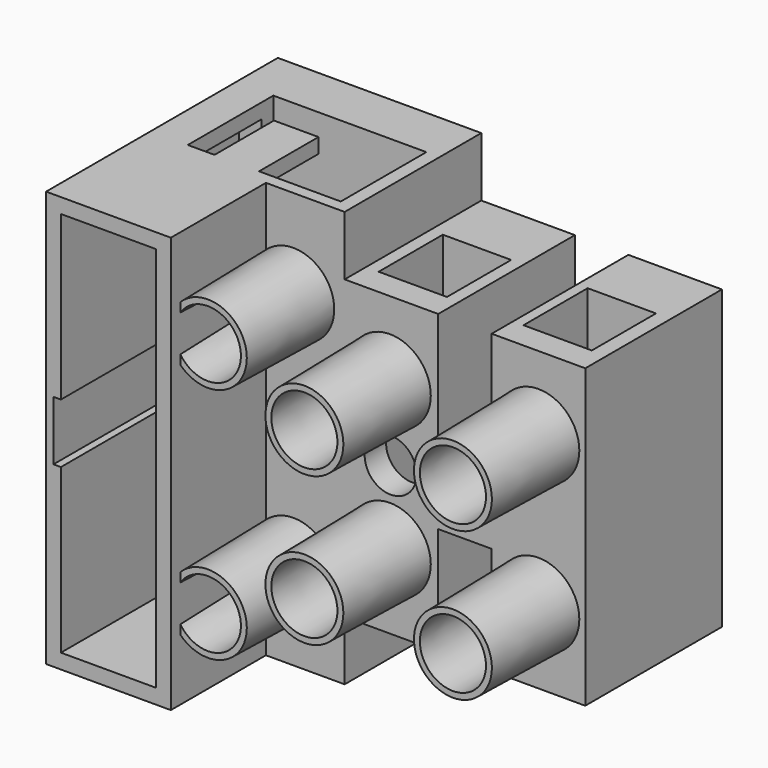
from build123d import *

# Parameters (mm, degrees)
F1_DEPTH  = 11.5
F3_R      = 2.75
F3_R_2    = 2.1
F4_DEPTH  = 7.2
F4_TAPER  = 1
F5_W      = 8.4
F5_H      = 28
F6_DEPTH  = 8
F8_DEPTH  = 15
F10_W     = 4.6
F10_H     = 5.4
F11_DEPTH = 20
F12_W     = 10.3
F12_H     = 7.2
F13_DEPTH = 10
F14_R     = 2
F15_DEPTH = 2
F16_R     = 2.1
F17_DEPTH = 2
F18_R     = 2.1
F19_DEPTH = 2
F20_R     = 2.1
F21_DEPTH = 2
F22_R     = 2.1
F23_DEPTH = 2
F24_R     = 2.1
F25_DEPTH = 2
F26_W     = 10.3
F26_H     = 7.2
F27_DEPTH = 10
F9_R      = 1.75
F28_DEPTH = 12
F29_R     = 1.5
F30_DEPTH = 0.8
F31_W     = 4.9
F31_H     = 8
F32_DEPTH = 1
F33_W     = 3
F33_H     = 1
F34_DEPTH = 5
F35_W     = 3
F35_H     = 1
F36_DEPTH = 5


with BuildPart() as f1:
    # F0 (on Front) → F1 (new body)
    with BuildSketch(Plane.XZ):
        Polygon((0.1941817731, -9.3541857075), (0.1941817731, 10.6458142925), (-6.1058182269, 10.6458142925), (-6.1058182269, 3.3958142925), (-9.7058182269, 3.3958142925), (-9.7058182269, 10.6458142925), (-16.0058182269, 10.6458142925), (-16.0058182269, 14.6458142925), (-29.7058182269, 14.6458142925), (-29.7058182269, 4.2458142925), (-31.1058182269, 4.2458142925), (-31.1058182269, -2.9541857075), (-29.7058182269, -2.9541857075), (-29.7058182269, -13.3541857075), (-16.0058182269, -13.3541857075), (-16.0058182269, -9.3541857075), (-9.7058182269, -9.3541857075), (-9.7058182269, -2.1041857075), (-6.1058182269, -2.1041857075), (-6.1058182269, -9.3541857075), align=None)
    extrude(amount=F1_DEPTH)

    # F3 (on face) → F4 (join)
    with BuildSketch(Plane.XZ.offset(11.5)):
        with Locations((-2.9558182269, 5.6458142925)):
            Circle(F3_R)
        with Locations((-2.9558182269, 5.6458142925)):
            Circle(F3_R_2, mode=Mode.SUBTRACT)
        with Locations((-2.9558182269, -4.3541857075)):
            Circle(F3_R)
        with Locations((-2.9558182269, -4.3541857075)):
            Circle(F3_R_2, mode=Mode.SUBTRACT)
        with Locations((-12.9558182269, 5.6458142925)):
            Circle(F3_R)
        with Locations((-12.9558182269, 5.6458142925)):
            Circle(F3_R_2, mode=Mode.SUBTRACT)
        with Locations((-12.9558182269, -4.3541857075)):
            Circle(F3_R)
        with Locations((-12.9558182269, -4.3541857075)):
            Circle(F3_R_2, mode=Mode.SUBTRACT)
        with Locations((-19.4558182269, -7.3541857075)):
            Circle(F3_R)
        with Locations((-19.4558182269, -7.3541857075)):
            Circle(F3_R_2, mode=Mode.SUBTRACT)
        with Locations((-19.4558182269, 8.6458142925)):
            Circle(F3_R)
        with Locations((-19.4558182269, 8.6458142925)):
            Circle(F3_R_2, mode=Mode.SUBTRACT)
    extrude(amount=F4_DEPTH, taper=F4_TAPER)

    # F5 (on face) → F6 (join)
    with BuildSketch(Plane.XZ.offset(11.5)):
        with Locations((-25.5058182269, 0.6458142925)):
            Rectangle(F5_W, F5_H)
    extrude(amount=F6_DEPTH)

    # F7 (on face) → F8 (cut)
    with BuildSketch(Plane.XZ.offset(19.5)):
        Polygon((-22.3058182269, 13.6458142925), (-28.7058182269, 13.6458142925), (-28.7058182269, 2.6458142925), (-29.2058182269, 2.6458142925), (-29.2058182269, -1.3541857075), (-28.7058182269, -1.3541857075), (-28.7058182269, -12.3541857075), (-22.3058182269, -12.3541857075), align=None)
    extrude(amount=-F8_DEPTH, mode=Mode.SUBTRACT)

    # F10 (on face) → F11 (cut, through all)
    with BuildSketch(Plane(origin=(0, 0, -9.3541857075), x_dir=(1, 0, 0), z_dir=(0, 0, -1))):
        with Locations((-3.1058182269, 7)):
            Rectangle(F10_W, F10_H)
        with Locations((-12.8558182269, 7)):
            Rectangle(F10_W, F10_H)
    extrude(amount=-F11_DEPTH, mode=Mode.SUBTRACT)

    # F12 (on face) → F13 (cut)
    with BuildSketch(Plane(origin=(0, 0, -13.3541857075), x_dir=(1, 0, 0), z_dir=(0, 0, -1))):
        with Locations((-22.0558182269, 7.1)):
            Rectangle(F12_W, F12_H)
    extrude(amount=-F13_DEPTH, mode=Mode.SUBTRACT)

    # F14 (on face) → F15 (cut)
    with BuildSketch(Plane.XZ.offset(11.5)):
        with Locations((-12.9558182269, 5.6458142925)):
            Circle(F14_R)
    extrude(amount=-F15_DEPTH, mode=Mode.SUBTRACT)

    # F16 (on face) → F17 (cut)
    with BuildSketch(Plane.XZ.offset(11.5)):
        with Locations((-12.9558182269, -4.3541857075)):
            Circle(F16_R)
    extrude(amount=-F17_DEPTH, mode=Mode.SUBTRACT)

    # F18 (on face) → F19 (cut)
    with BuildSketch(Plane.XZ.offset(11.5)):
        with Locations((-2.9558182269, 5.6458142925)):
            Circle(F18_R)
    extrude(amount=-F19_DEPTH, mode=Mode.SUBTRACT)

    # F20 (on face) → F21 (cut)
    with BuildSketch(Plane.XZ.offset(11.5)):
        with Locations((-2.9558182269, -4.3541857075)):
            Circle(F20_R)
    extrude(amount=-F21_DEPTH, mode=Mode.SUBTRACT)

    # F22 (on face) → F23 (cut)
    with BuildSketch(Plane.XZ.offset(11.5)):
        with Locations((-19.4558182269, 8.6458142925)):
            Circle(F22_R)
    extrude(amount=-F23_DEPTH, mode=Mode.SUBTRACT)

    # F24 (on face) → F25 (cut)
    with BuildSketch(Plane.XZ.offset(11.5)):
        with Locations((-19.4558182269, -7.3541857075)):
            Circle(F24_R)
    extrude(amount=-F25_DEPTH, mode=Mode.SUBTRACT)

    # F26 (on face) → F27 (cut)
    with BuildSketch(Plane.XY.offset(14.6458142925)):
        with Locations((-22.0558182269, -7.1)):
            Rectangle(F26_W, F26_H)
    extrude(amount=-F27_DEPTH, mode=Mode.SUBTRACT)

    # F9 (on face) → F28 (cut)
    with BuildSketch(Plane.XZ.offset(11.5)):
        with Locations((-7.9058182269, 0.6458142925)):
            Circle(F9_R)
        with Locations((-12.9058182269, 0.6458142925)):
            Circle(F9_R)
        with Locations((-17.9058182269, 0.6458142925)):
            Circle(F9_R)
    extrude(amount=-F28_DEPTH, mode=Mode.SUBTRACT)

    # F29 (on face) → F30 (join)
    with BuildSketch(Plane(origin=(0, 0, 0), x_dir=(-1, 0, 0), z_dir=(0, 1, 0))):
        with Locations((27.9058182269, 0.6458142925)):
            Circle(F29_R)
    extrude(amount=F30_DEPTH)

    # F31 (on face) → F32 (cut, through all)
    with BuildSketch(Plane.XZ.offset(4.5)):
        with Locations((-24.7558182269, 0.6458142925)):
            Rectangle(F31_W, F31_H)
    extrude(amount=-F32_DEPTH, mode=Mode.SUBTRACT)

    # F33 (on face) → F34 (join)
    with BuildSketch(Plane(origin=(0, -10.7, 0), x_dir=(-1, 0, 0), z_dir=(0, 1, 0))):
        with Locations((23.9058182269, -12.8541857075)):
            Rectangle(F33_W, F33_H)
    extrude(amount=F34_DEPTH)

    # F35 (on face) → F36 (join)
    with BuildSketch(Plane(origin=(0, -10.7, 0), x_dir=(-1, 0, 0), z_dir=(0, 1, 0))):
        with Locations((23.9058182269, 14.1458142925)):
            Rectangle(F35_W, F35_H)
    extrude(amount=F36_DEPTH)


solid = f1.part
